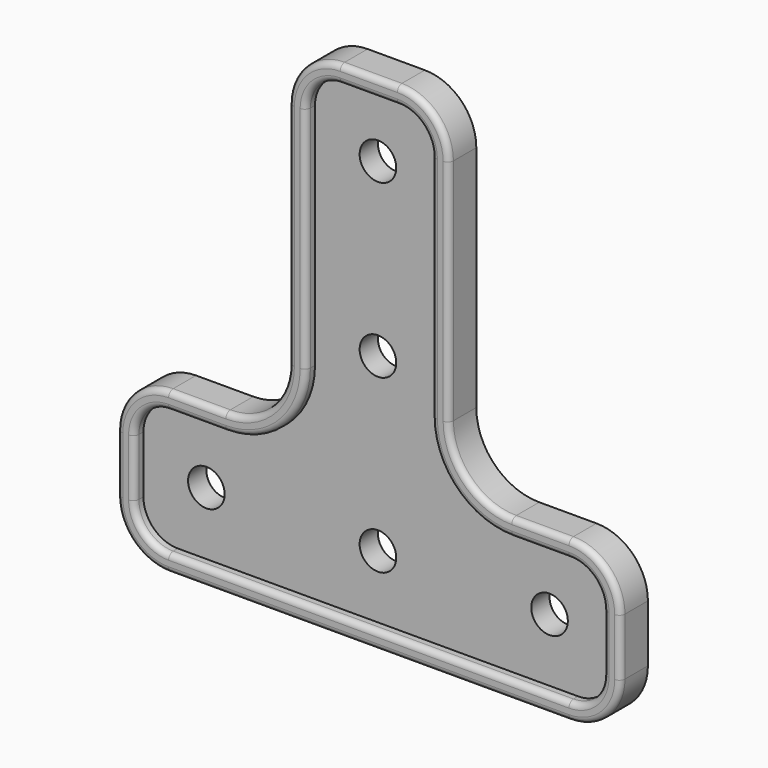
from build123d import *

# Parameters (mm, degrees)
F0_R     = 1.6
F1_DEPTH = 2
F3_DEPTH = 1
F4_R     = 0.5


with BuildPart() as f1:
    # F0 (on Front) → F1 (new body)
    with BuildSketch(Plane.XZ):
        with BuildLine():
            Line((2.5, 44), (0, 44))
            Line((0, 44), (-2.5, 44))
            ThreePointArc((-2.5, 44), (-5.6819805153, 42.6819805153), (-7, 39.5))
            Line((-7, 39.5), (-7, 19.5))
            ThreePointArc((-7, 19.5), (-8.6109127035, 15.6109127035), (-12.5, 14))
            Line((-12.5, 14), (-17.5, 14))
            ThreePointArc((-17.5, 14), (-20.6819805153, 12.6819805153), (-22, 9.5))
            Line((-22, 9.5), (-22, 4.5))
            ThreePointArc((-22, 4.5), (-20.6819805153, 1.3180194847), (-17.5, 0))
            Line((-17.5, 0), (0, 0))
            Line((0, 0), (17.5, 0))
            ThreePointArc((17.5, 0), (20.6819805153, 1.3180194847), (22, 4.5))
            Line((22, 4.5), (22, 9.5))
            ThreePointArc((22, 9.5), (20.6819805153, 12.6819805153), (17.5, 14))
            Line((17.5, 14), (12.5, 14))
            ThreePointArc((12.5, 14), (8.6109127035, 15.6109127035), (7, 19.5))
            Line((7, 19.5), (7, 39.5))
            ThreePointArc((7, 39.5), (5.6819805153, 42.6819805153), (2.5, 44))
        make_face()
        with Locations((-15, 7)):
            Circle(F0_R, mode=Mode.SUBTRACT)
        with Locations((0, 7)):
            Circle(F0_R, mode=Mode.SUBTRACT)
        with Locations((15, 7)):
            Circle(F0_R, mode=Mode.SUBTRACT)
        with Locations((0, 22)):
            Circle(F0_R, mode=Mode.SUBTRACT)
        with Locations((0, 37)):
            Circle(F0_R, mode=Mode.SUBTRACT)
    extrude(amount=F1_DEPTH)

    # F2 (on face) → F3 (join)
    with BuildSketch(Plane.XZ.offset(2)):
        with BuildLine():
            ThreePointArc((22, 9.5), (20.6819805153, 12.6819805153), (17.5, 14))
            Line((17.5, 14), (12.5, 14))
            ThreePointArc((12.5, 14), (8.6109127035, 15.6109127035), (7, 19.5))
            Line((7, 19.5), (7, 39.5))
            ThreePointArc((7, 39.5), (5.6819805153, 42.6819805153), (2.5, 44))
            Line((2.5, 44), (-2.5, 44))
            ThreePointArc((-2.5, 44), (-5.6819805153, 42.6819805153), (-7, 39.5))
            Line((-7, 39.5), (-7, 19.5))
            ThreePointArc((-7, 19.5), (-8.6109127035, 15.6109127035), (-12.5, 14))
            Line((-12.5, 14), (-17.5, 14))
            ThreePointArc((-17.5, 14), (-20.6819805153, 12.6819805153), (-22, 9.5))
            Line((-22, 9.5), (-22, 4.5))
            ThreePointArc((-22, 4.5), (-20.6819805153, 1.3180194847), (-17.5, 0))
            Line((-17.5, 0), (17.5, 0))
            ThreePointArc((17.5, 0), (20.6819805153, 1.3180194847), (22, 4.5))
            Line((22, 4.5), (22, 9.5))
        make_face()
        with BuildLine():
            Line((-5.5, 19.5), (-5.5, 39.5))
            ThreePointArc((-5.5, 39.5), (-4.6213203436, 41.6213203436), (-2.5, 42.5))
            Line((-2.5, 42.5), (2.5, 42.5))
            ThreePointArc((2.5, 42.5), (4.6213203436, 41.6213203436), (5.5, 39.5))
            Line((5.5, 39.5), (5.5, 19.5))
            ThreePointArc((5.5, 19.5), (7.5502525317, 14.5502525317), (12.5, 12.5))
            Line((12.5, 12.5), (17.5, 12.5))
            ThreePointArc((17.5, 12.5), (19.6213203436, 11.6213203436), (20.5, 9.5))
            Line((20.5, 9.5), (20.5, 4.5))
            ThreePointArc((20.5, 4.5), (19.6213203436, 2.3786796564), (17.5, 1.5))
            Line((17.5, 1.5), (-17.5, 1.5))
            ThreePointArc((-17.5, 1.5), (-19.6213203436, 2.3786796564), (-20.5, 4.5))
            Line((-20.5, 4.5), (-20.5, 9.5))
            ThreePointArc((-20.5, 9.5), (-19.6213203436, 11.6213203436), (-17.5, 12.5))
            Line((-17.5, 12.5), (-12.5, 12.5))
            ThreePointArc((-12.5, 12.5), (-7.5502525317, 14.5502525317), (-5.5, 19.5))
        make_face(mode=Mode.SUBTRACT)
    extrude(amount=F3_DEPTH)

    # F4
    f4_edges = [f1.edges().sort_by_distance(p)[0] for p in [
        (-7, -3, 29.5),
        (-5.5, -3, 29.5),
    ]]
    fillet(f4_edges, radius=F4_R)


solid = f1.part
